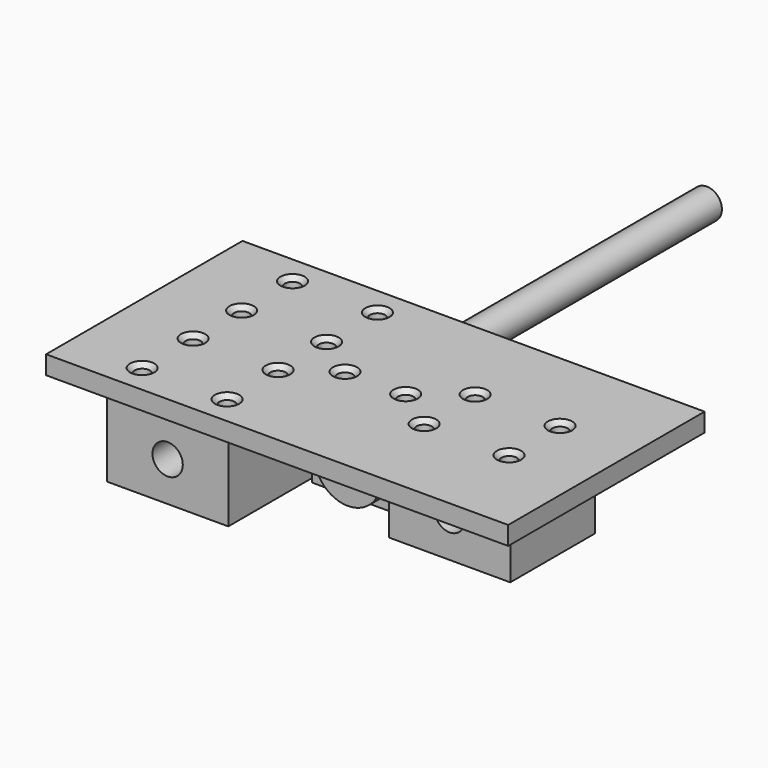
from build123d import *

# Parameters (mm, degrees)
F0_W      = 40
F0_H      = 35
F0_R      = 2.5
F1_DEPTH  = 26
F2_R      = 5
F3_DEPTH  = 35
F4_R      = 5
F5_DEPTH  = 200
F8_W      = 152.4
F8_H      = 80.9625
F8_W_2    = 40
F8_H_2    = 35
F8_R      = 2.5
F8_W_3    = 19.875
F8_H_3    = 12.7
F8_W_4    = 11.875
F9_DEPTH  = 6.096
F10_SIZE  = 1.5
F11_DEPTH = 25.4
F12_R     = 11
F12_R_2   = 4
F13_DEPTH = 5
F14_DEPTH = 12.7


with BuildPart() as f1:
    # F0 (on Top) → F1 (new body)
    with BuildSketch(Plane.XY):
        Rectangle(F0_W, F0_H)
        with Locations((-14, -10.5)):
            Circle(F0_R, mode=Mode.SUBTRACT)
        with Locations((14, -10.5)):
            Circle(F0_R, mode=Mode.SUBTRACT)
        with Locations((-14, 10.5)):
            Circle(F0_R, mode=Mode.SUBTRACT)
        with Locations((14, 10.5)):
            Circle(F0_R, mode=Mode.SUBTRACT)
    extrude(amount=F1_DEPTH)

    # F2 (on face) → F3 (cut, through all)
    with BuildSketch(Plane.XZ.offset(17.5)):
        with Locations((0, 13)):
            Circle(F2_R)
    extrude(amount=-F3_DEPTH, mode=Mode.SUBTRACT)


with BuildPart() as f5:
    # F4 (on Front) → F5 (new body)
    with BuildSketch(Plane.XZ):
        with Locations((3.7955723237, 0)):
            Circle(F4_R)
    extrude(amount=-F5_DEPTH)


with BuildPart() as f6_1:
    # F6: copy of F1
    add(f1.part.moved(Location((0, 41, 0))))


with BuildPart() as f7_1:
    # F7: copy of F1
    add(f1.part.moved(Location((76.2, 21, 0))))


with BuildPart() as f9:
    # F8 (on face) → F9 (new body)
    with BuildSketch(Plane.XY.offset(26)):
        with Locations((38.1, 20.5)):
            Rectangle(F8_W, F8_H)
        Rectangle(F8_W_2, F8_H_2, mode=Mode.SUBTRACT)
        with Locations((62.2, 10.5)):
            Circle(F8_R, mode=Mode.SUBTRACT)
        with Locations((90.2, 10.5)):
            Circle(F8_R, mode=Mode.SUBTRACT)
        with Locations((-14, 30.5)):
            Circle(F8_R, mode=Mode.SUBTRACT)
        with Locations((14, 30.5)):
            Circle(F8_R, mode=Mode.SUBTRACT)
        with Locations((-14, 51.5)):
            Circle(F8_R, mode=Mode.SUBTRACT)
        with Locations((14, 51.5)):
            Circle(F8_R, mode=Mode.SUBTRACT)
        Polygon((42.1, 26.85), (53.975, 26.85), (53.975, 14.15), (42.1, 14.15), (22.225, 14.15), (22.225, 26.85), align=None, mode=Mode.SUBTRACT)
        with Locations((62.2, 31.5)):
            Circle(F8_R, mode=Mode.SUBTRACT)
        with Locations((90.2, 31.5)):
            Circle(F8_R, mode=Mode.SUBTRACT)
        Rectangle(F8_W_2, F8_H_2)
        with Locations((-14, -10.5)):
            Circle(F8_R, mode=Mode.SUBTRACT)
        with Locations((14, -10.5)):
            Circle(F8_R, mode=Mode.SUBTRACT)
        with Locations((-14, 10.5)):
            Circle(F8_R, mode=Mode.SUBTRACT)
        with Locations((14, 10.5)):
            Circle(F8_R, mode=Mode.SUBTRACT)
        with Locations((32.1625, 20.5)):
            Rectangle(F8_W_3, F8_H_3)
        with Locations((28.1, 20.5)):
            Circle(F8_R, mode=Mode.SUBTRACT)
        with Locations((48.0375, 20.5)):
            Rectangle(F8_W_4, F8_H_3)
        with Locations((48.1, 20.5)):
            Circle(F8_R, mode=Mode.SUBTRACT)
    extrude(amount=F9_DEPTH)

    # F10
    f10_edges = [f9.edges().sort_by_distance(p)[0] for p in [
        (-16.5, 10.5, 32.096),
        (-16.5, -10.5, 32.096),
        (11.5, -10.5, 32.096),
        (11.5, 10.5, 32.096),
        (-16.5, 30.5, 32.096),
        (-16.5, 51.5, 32.096),
        (11.5, 51.5, 32.096),
        (11.5, 30.5, 32.096),
        (59.7, 31.5, 32.096),
        (59.7, 10.5, 32.096),
        (87.7, 31.5, 32.096),
        (87.7, 10.5, 32.096),
        (25.6, 20.5, 32.096),
        (45.6, 20.5, 32.096),
    ]]
    chamfer(f10_edges, length=F10_SIZE)


with BuildPart() as f11:
    # F8 (on face) → F11 (new body)
    with BuildSketch(Plane.XY.offset(26)):
        with Locations((48.0375, 20.5)):
            Rectangle(F8_W_4, F8_H_3)
        with Locations((48.1, 20.5)):
            Circle(F8_R, mode=Mode.SUBTRACT)
        with Locations((32.1625, 20.5)):
            Rectangle(F8_W_3, F8_H_3)
        with Locations((28.1, 20.5)):
            Circle(F8_R, mode=Mode.SUBTRACT)
    extrude(amount=-F11_DEPTH)

    # F12 (on face) → F13 (join)
    with BuildSketch(Plane.XZ.offset(-14.15)):
        with Locations((38.1000111359, 12)):
            Circle(F12_R)
        with Locations((38.1000111359, 12)):
            Circle(F12_R_2, mode=Mode.SUBTRACT)
    extrude(amount=F13_DEPTH)

    # F14 (cut, through all): a face of the model
    f14_faces = [f11.faces().sort_by_distance(p)[0] for p in [
        (38.1000111359, 14.15, 12),
    ]]
    extrude(f14_faces, amount=-F14_DEPTH, mode=Mode.SUBTRACT)


solid = Compound([f1.part, f5.part, f6_1.part, f7_1.part, f9.part, f11.part])
